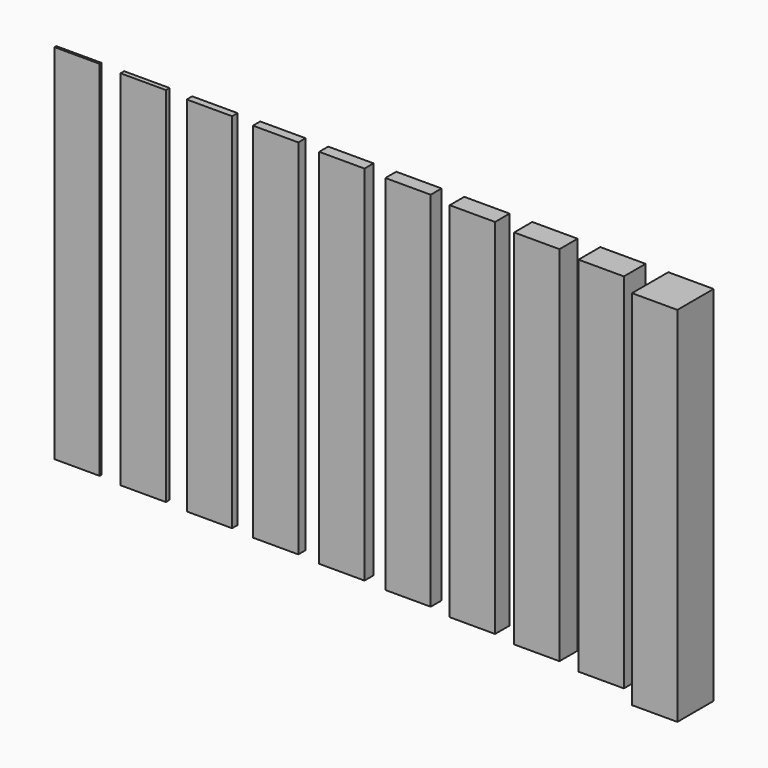
from build123d import *

# Parameters (mm, degrees)
F0_W      = 12.7
F0_H      = 101.6
F1_DEPTH  = 0.635
F2_W      = 12.7
F2_H      = 101.6
F3_DEPTH  = 1.27
F4_W      = 12.7
F4_H      = 101.6
F5_DEPTH  = 1.905
F6_W      = 12.7
F6_H      = 101.6
F7_DEPTH  = 2.54
F8_W      = 12.7
F8_H      = 101.6
F9_DEPTH  = 3.175
F10_W     = 12.7
F10_H     = 101.6
F11_DEPTH = 3.81
F12_W     = 12.7
F12_H     = 101.6
F13_DEPTH = 5.08
F14_W     = 12.7
F14_H     = 101.6
F15_DEPTH = 6.35
F16_W     = 12.7
F16_H     = 101.6
F17_DEPTH = 7.62
F18_W     = 12.7
F18_H     = 101.6
F19_DEPTH = 12.7


with BuildPart() as f1:
    # F0 (on Front) → F1 (new body)
    with BuildSketch(Plane.XZ):
        with Locations((6.35, 50.8)):
            Rectangle(F0_W, F0_H)
    extrude(amount=F1_DEPTH)


with BuildPart() as f3:
    # F2 (on Front) → F3 (new body)
    with BuildSketch(Plane.XZ):
        with Locations((25.4, 50.8)):
            Rectangle(F2_W, F2_H)
    extrude(amount=F3_DEPTH)


with BuildPart() as f5:
    # F4 (on Front) → F5 (new body)
    with BuildSketch(Plane.XZ):
        with Locations((44.45, 50.8)):
            Rectangle(F4_W, F4_H)
    extrude(amount=F5_DEPTH)


with BuildPart() as f7:
    # F6 (on Front) → F7 (new body)
    with BuildSketch(Plane.XZ):
        with Locations((63.5, 50.8)):
            Rectangle(F6_W, F6_H)
    extrude(amount=F7_DEPTH)


with BuildPart() as f9:
    # F8 (on Front) → F9 (new body)
    with BuildSketch(Plane.XZ):
        with Locations((82.55, 50.8)):
            Rectangle(F8_W, F8_H)
    extrude(amount=F9_DEPTH)


with BuildPart() as f11:
    # F10 (on Front) → F11 (new body)
    with BuildSketch(Plane.XZ):
        with Locations((101.6, 50.8)):
            Rectangle(F10_W, F10_H)
    extrude(amount=F11_DEPTH)


with BuildPart() as f13:
    # F12 (on Front) → F13 (new body)
    with BuildSketch(Plane.XZ):
        with Locations((120.65, 50.8)):
            Rectangle(F12_W, F12_H)
    extrude(amount=F13_DEPTH)


with BuildPart() as f15:
    # F14 (on Front) → F15 (new body)
    with BuildSketch(Plane.XZ):
        with Locations((139.7, 50.8)):
            Rectangle(F14_W, F14_H)
    extrude(amount=F15_DEPTH)


with BuildPart() as f17:
    # F16 (on Front) → F17 (new body)
    with BuildSketch(Plane.XZ):
        with Locations((158.75, 50.8)):
            Rectangle(F16_W, F16_H)
    extrude(amount=F17_DEPTH)


with BuildPart() as f19:
    # F18 (on Front) → F19 (new body)
    with BuildSketch(Plane.XZ):
        with Locations((177.8, 50.8)):
            Rectangle(F18_W, F18_H)
    extrude(amount=F19_DEPTH)


solid = Compound([f1.part, f3.part, f5.part, f7.part, f9.part, f11.part, f13.part, f15.part, f17.part, f19.part])
